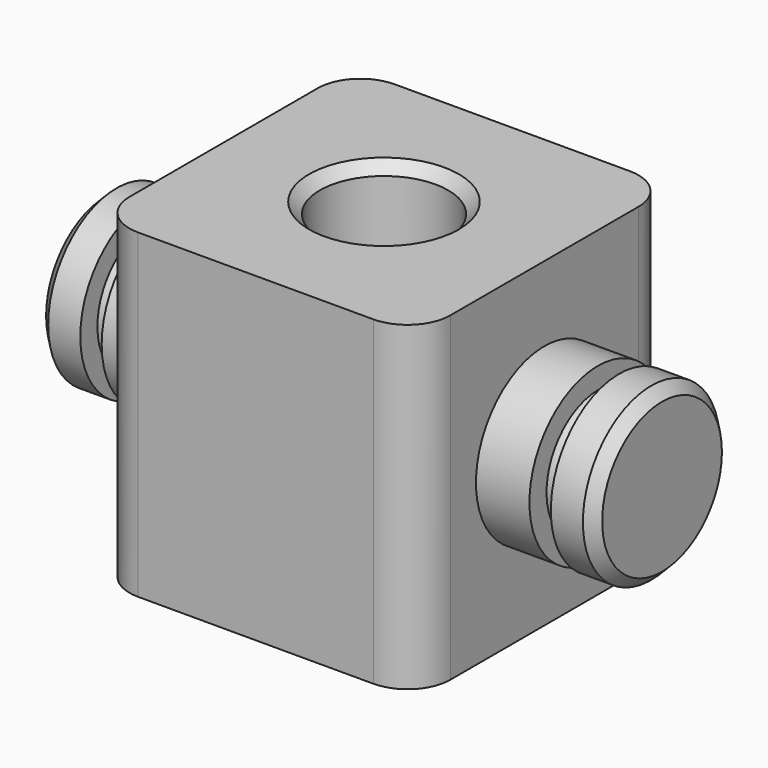
from build123d import *

# Parameters (mm, degrees)
F0_W     = 15
F0_H     = 15
F1_DEPTH = 7.5
F2_R     = 4
F3_DEPTH = 5.5
F4_R     = 4
F5_DEPTH = 5.5
F6_R     = 3
F7_DEPTH = 15.001
F8_W     = 1
F8_H     = 1
F10_W    = 1
F10_H    = 1
F12_SIZE = 0.5
F13_R    = 2
F14_SIZE = 0.5


with BuildPart() as f1:
    # F0 (on Front) → F1 (new body, symmetric)
    with BuildSketch(Plane.XZ):
        Rectangle(F0_W, F0_H)
    extrude(amount=F1_DEPTH, both=True)

    # F2 (on face) → F3 (join)
    with BuildSketch(Plane.YZ.offset(7.5)):
        Circle(F2_R)
    extrude(amount=F3_DEPTH)

    # F4 (on face) → F5 (join)
    with BuildSketch(Plane(origin=(-7.5, 0, 0), x_dir=(0, -1, 0), z_dir=(-1, 0, 0))):
        Circle(F4_R)
    extrude(amount=F5_DEPTH)

    # F6 (on face) → F7 (cut, through all)
    with BuildSketch(Plane.XY.offset(7.5)):
        Circle(F6_R)
    extrude(amount=-F7_DEPTH, mode=Mode.SUBTRACT)

    # F8 (on Front) → F9 (revolve, cut)
    with BuildSketch(Plane.XZ):
        with Locations((10.5, 3.5)):
            Rectangle(F8_W, F8_H)
    revolve(axis=Axis((13, 0, 0), (1, 0, 0)), mode=Mode.SUBTRACT)

    # F10 (on Front) → F11 (revolve, cut)
    with BuildSketch(Plane.XZ):
        with Locations((-10.5, 3.5)):
            Rectangle(F10_W, F10_H)
    revolve(axis=Axis((-13, 0, 0), (-1, 0, 0)), mode=Mode.SUBTRACT)

    # F12
    f12_edges = [f1.edges().sort_by_distance(p)[0] for p in [
        (13, -4, 0),
        (-13, 4, 0),
    ]]
    chamfer(f12_edges, length=F12_SIZE)

    # F13
    f13_edges = [f1.edges().sort_by_distance(p)[0] for p in [
        (-7.5, -7.5, 0),
        (-7.5, 7.5, 0),
        (7.5, 7.5, 0),
        (7.5, -7.5, 0),
    ]]
    fillet(f13_edges, radius=F13_R)

    # F14
    f14_edges = [f1.edges().sort_by_distance(p)[0] for p in [
        (-3, 0, 7.5),
        (-3, 0, -7.5),
    ]]
    chamfer(f14_edges, length=F14_SIZE)


solid = f1.part
